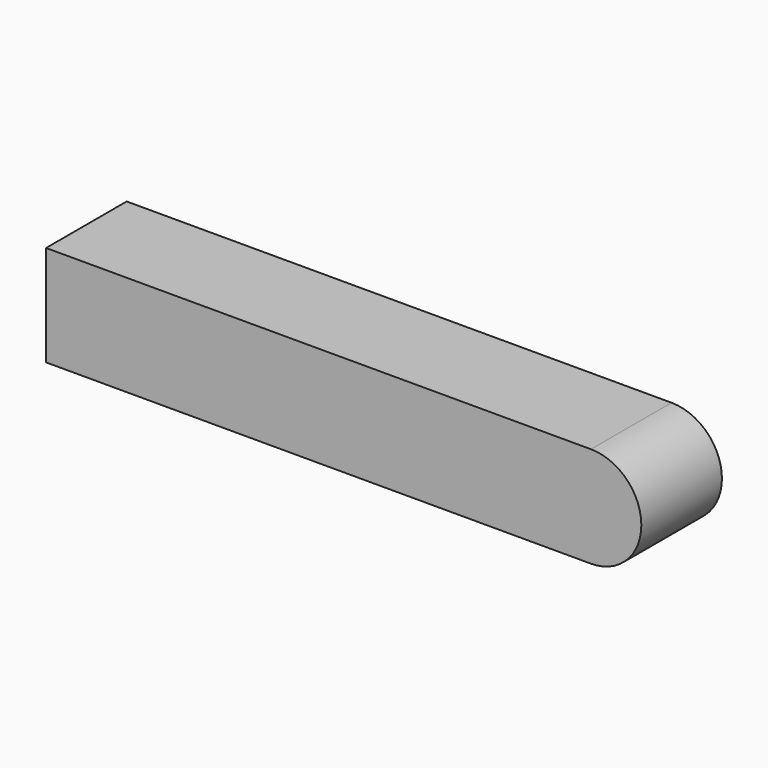
from build123d import *

# Parameters (mm, degrees)
F0_W     = 46.5433155785
F0_H     = 25.4
F0_W_2   = 41.6104151942
F1_DEPTH = 25.4


with BuildPart() as f1:
    # F0 (on Front) → F1 (new body)
    with BuildSketch(Plane.XZ):
        with BuildLine():
            Line((137.3800143067, 0), (88.1537307727, 0))
            Line((88.1537307727, 0), (88.1537307727, -25.4))
            Line((88.1537307727, -25.4), (137.3800143067, -25.4))
            ThreePointArc((137.3800143067, -25.4), (150.0800143067, -12.7), (137.3800143067, 0))
        make_face()
        with Locations((23.2716577892, -12.7)):
            Rectangle(F0_W, F0_H)
        with Locations((67.3485231756, -12.7)):
            Rectangle(F0_W_2, F0_H)
    extrude(amount=F1_DEPTH)


solid = f1.part
